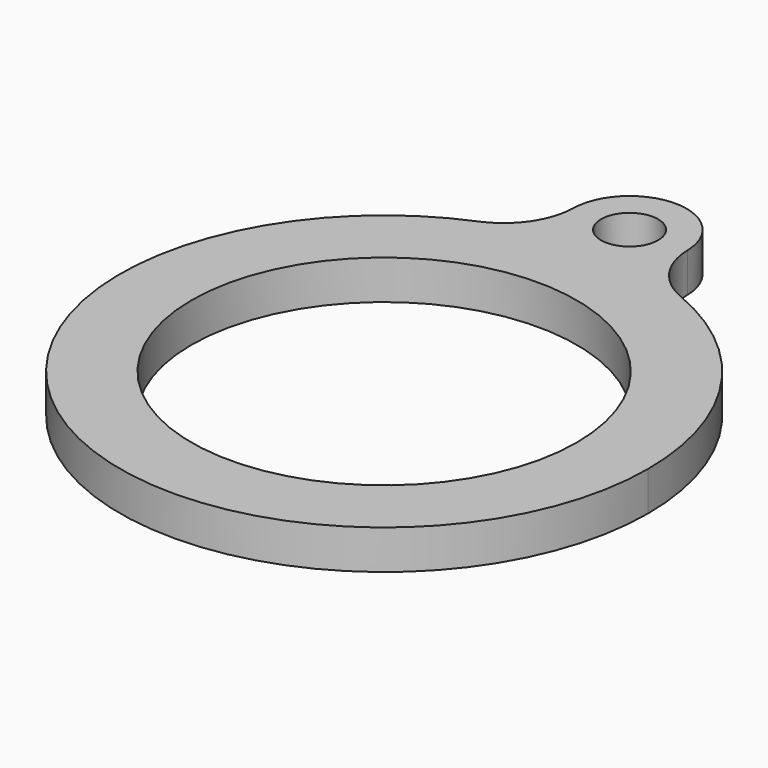
from build123d import *

# Parameters (mm, degrees)
F0_R     = 13.5
F0_R_2   = 2
F1_DEPTH = 2.75
F2_R     = 5


with BuildPart() as f1:
    # F0 (on Top) → F1 (new body)
    with BuildSketch(Plane.XY):
        with BuildLine():
            ThreePointArc((-4, 18.0623918682), (-11.5812348219, -14.4265380463), (18.5, 0))
            ThreePointArc((18.5, 0), (14.4265380463, 11.5812348219), (4, 18.0623918682))
            ThreePointArc((4, 18.0623918682), (3.2273401507, 18.2163189353), (2.4488272709, 18.3372093023))
            ThreePointArc((2.4488272709, 18.3372093023), (0, 17.5), (-2.4488272709, 18.3372093023))
            ThreePointArc((-2.4488272709, 18.3372093023), (-3.2273401507, 18.2163189353), (-4, 18.0623918682))
        make_face()
        Circle(F0_R, mode=Mode.SUBTRACT)
        with BuildLine():
            ThreePointArc((-2.4488272709, 18.3372093023), (0, 17.5), (2.4488272709, 18.3372093023))
            ThreePointArc((2.4488272709, 18.3372093023), (0, 18.5), (-2.4488272709, 18.3372093023))
        make_face()
        with BuildLine():
            ThreePointArc((-2.4488272709, 18.3372093023), (0, 18.5), (2.4488272709, 18.3372093023))
            ThreePointArc((2.4488272709, 18.3372093023), (3.5913304696, 19.7386523744), (4, 21.5))
            ThreePointArc((4, 21.5), (0, 25.5), (-4, 21.5))
            ThreePointArc((-4, 21.5), (-3.5913304696, 19.7386523744), (-2.4488272709, 18.3372093023))
        make_face()
        with Locations((0, 21.5)):
            Circle(F0_R_2, mode=Mode.SUBTRACT)
        with BuildLine():
            ThreePointArc((2.4488272709, 18.3372093023), (3.2273401507, 18.2163189353), (4, 18.0623918682))
            Line((4, 18.0623918682), (4, 21.5))
            ThreePointArc((4, 21.5), (3.5913304696, 19.7386523744), (2.4488272709, 18.3372093023))
        make_face()
        with BuildLine():
            Line((-4, 21.5), (-4, 18.0623918682))
            ThreePointArc((-4, 18.0623918682), (-3.2273401507, 18.2163189353), (-2.4488272709, 18.3372093023))
            ThreePointArc((-2.4488272709, 18.3372093023), (-3.5913304696, 19.7386523744), (-4, 21.5))
        make_face()
    extrude(amount=-F1_DEPTH)

    # F2
    f2_edges = [f1.edges().sort_by_distance(p)[0] for p in [
        (4, 18.062392, -1.375),
        (-4, 18.062392, -1.375),
    ]]
    fillet(f2_edges, radius=F2_R)


solid = f1.part
